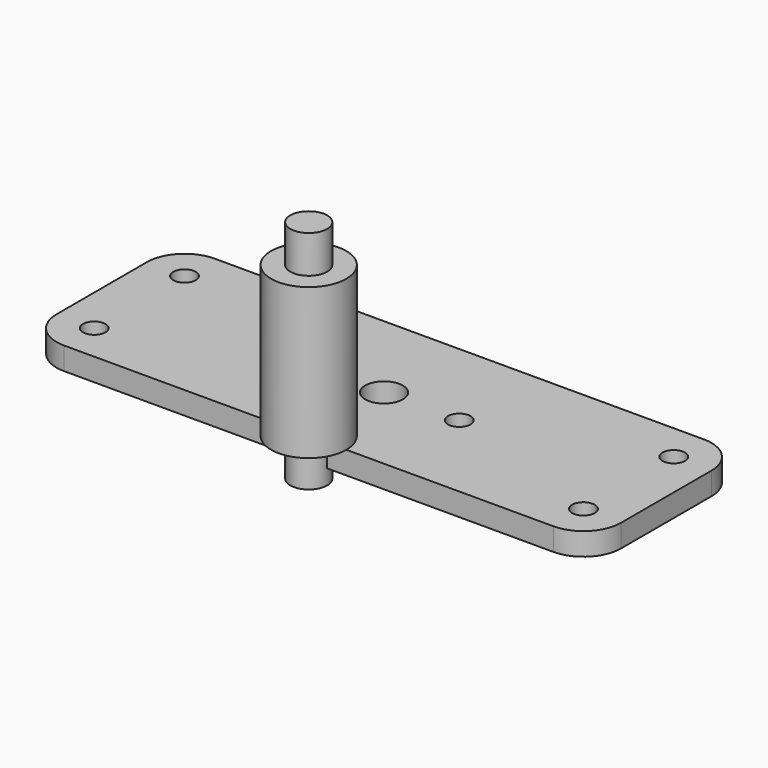
from build123d import *

# Parameters (mm, degrees)
F1_DEPTH = 3
F2_R     = 1.5
F2_R_2   = 2.5
F3_DEPTH = 3
F4_W     = 2.45
F4_H     = 2
F4_H_2   = 3


with BuildPart() as f1:
    # F0 (on Top) → F1 (new body)
    with BuildSketch(Plane.XY):
        with BuildLine():
            ThreePointArc((-39.5747060731, -34.0473439358), (-38.1102399791, -37.5828778418), (-34.5747060731, -39.0473439358))
            Line((-34.5747060731, -39.0473439358), (30.4252939269, -39.0473439358))
            ThreePointArc((30.4252939269, -39.0473439358), (33.9608278328, -37.5828778418), (35.4252939269, -34.0473439358))
            Line((35.4252939269, -34.0473439358), (35.4252939269, -19.0473439358))
            ThreePointArc((35.4252939269, -19.0473439358), (33.9608278328, -15.5118100299), (30.4252939269, -14.0473439358))
            Line((30.4252939269, -14.0473439358), (-34.5747060731, -14.0473439358))
            ThreePointArc((-34.5747060731, -14.0473439358), (-38.1102399791, -15.5118100299), (-39.5747060731, -19.0473439358))
            Line((-39.5747060731, -19.0473439358), (-39.5747060731, -34.0473439358))
        make_face()
    extrude(amount=F1_DEPTH)

    # F2 (on face) → F3 (cut, through all)
    with BuildSketch(Plane.XY.offset(3)):
        with Locations((-34.5747060731, -19.0473439358)):
            Circle(F2_R)
        with Locations((-34.5747060731, -34.0473439358)):
            Circle(F2_R)
        with Locations((30.4252939269, -19.0473439358)):
            Circle(F2_R)
        with Locations((30.4252939269, -34.0473439358)):
            Circle(F2_R)
        with Locations((-2.0747060731, -26.5473439358)):
            Circle(F2_R_2)
        with Locations((-12.0747060731, -26.5473439358)):
            Circle(F2_R)
        with Locations((7.9252939269, -26.5473439358)):
            Circle(F2_R)
    extrude(amount=-F3_DEPTH, mode=Mode.SUBTRACT)


with BuildPart() as f5:
    # F4 (on face) → F5 (revolve)
    with BuildSketch(Plane.XZ.offset(39.0473439358)):
        Polygon((-4.5247060731, 3), (-2.0747060731, 3), (-2.0747060731, 28), (-4.5247060731, 28), (-4.5247060731, 23), (-7.0747060731, 23), (-7.0747060731, 3), align=None)
        with Locations((-3.2997060731, -1)):
            Rectangle(F4_W, F4_H)
        with Locations((-3.2997060731, 1.5)):
            Rectangle(F4_W, F4_H_2)
    revolve(axis=Axis((-2.0747060731, -39.0473439358, 15.5), (0, 0, -1)))


solid = Compound([f1.part, f5.part])
